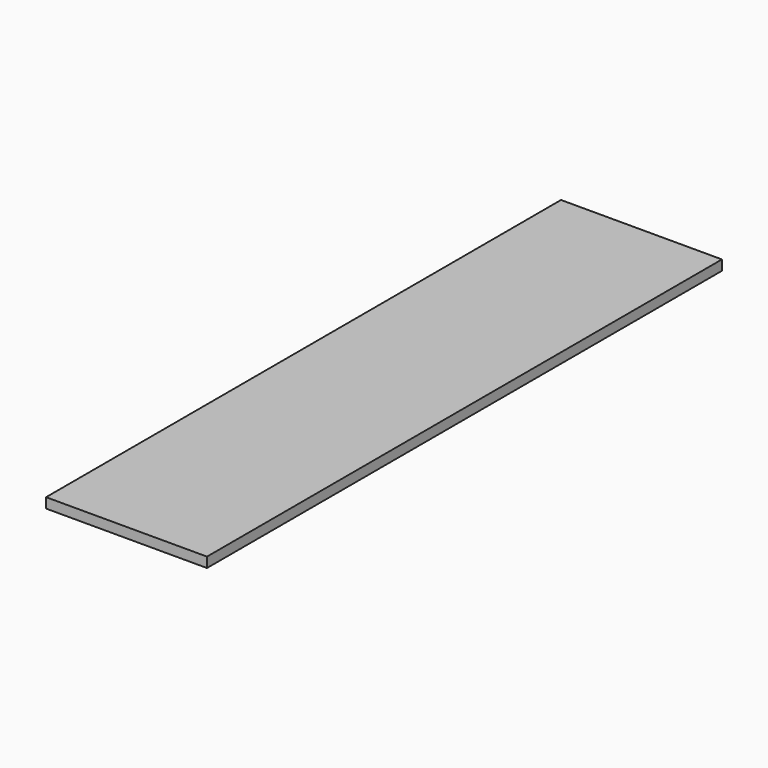
from build123d import *

# Parameters (mm, degrees)
SKETCH_W  = 0.8
SKETCH_H  = 3.2
PAD_DEPTH = 0.05


with BuildPart() as part:
    # Sketch → Pad (new body)
    with BuildSketch(Plane.XY):
        Rectangle(SKETCH_W, SKETCH_H)
    extrude(amount=PAD_DEPTH)


solid = part.part
